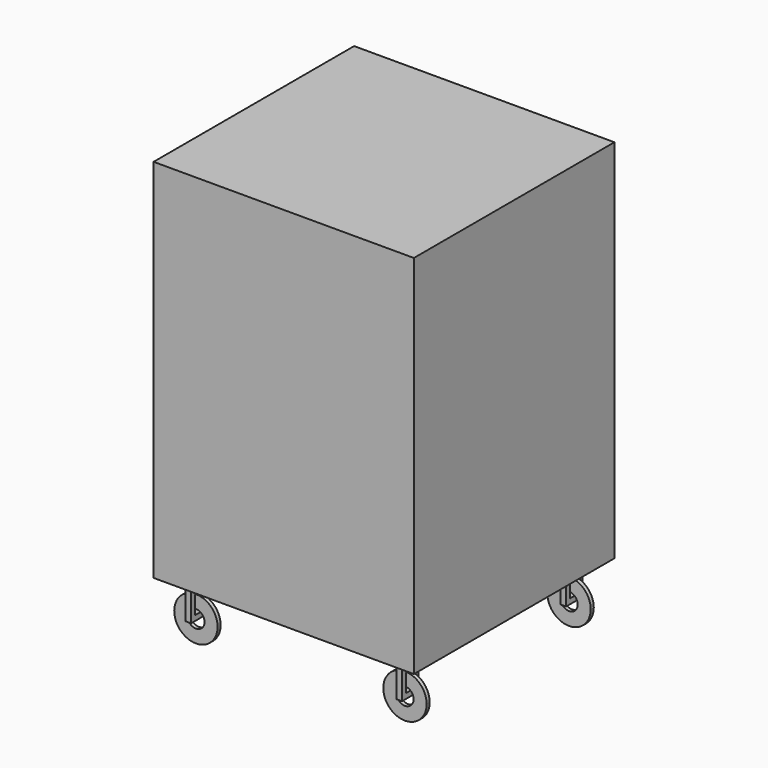
from build123d import *

# Parameters (mm, degrees)
F1_START  = 15.24
F0_W      = 13.5
F0_H      = 13
F1_DEPTH  = 96.52
F2_DEPTH  = 25
F4_START  = 6.5
F4_DEPTH  = 1
F5_R      = 2.2732854871
F6_DEPTH  = 25
F10_START = 6.25
F9_W      = 2.72
F9_H      = 1.36
F10_DEPTH = 1.5
F13_W     = 41.58
F13_H     = 15.24
F14_DEPTH = 100
F15_W     = 40.04
F15_H     = 15.24
F16_DEPTH = 100


with BuildPart() as f1:
    # F0 (on Top) → F1 (new body)
    with BuildSketch(Plane.XY.offset(F1_START)):
        Polygon((-20.79, -20.02), (-20.79, -33.02), (20.79, -33.02), (20.79, -20.02), (34.29, -20.02), (34.29, 20.02), (20.79, 20.02), (20.79, 33.02), (-20.79, 33.02), (-20.79, 20.02), (-34.29, 20.02), (-34.29, -20.02), align=None)
        with Locations((-27.54, -26.52)):
            Rectangle(F0_W, F0_H)
        with Locations((-27.54, 26.52)):
            Rectangle(F0_W, F0_H)
        with Locations((27.54, -26.52)):
            Rectangle(F0_W, F0_H)
        with Locations((27.54, 26.52)):
            Rectangle(F0_W, F0_H)
    extrude(amount=F1_DEPTH)

    # F0 (on Top) → F2 (join)
    with BuildSketch(Plane.XY):
        Polygon((-20.79, -20.02), (-20.79, -33.02), (20.79, -33.02), (20.79, -20.02), (34.29, -20.02), (34.29, 20.02), (20.79, 20.02), (20.79, 33.02), (-20.79, 33.02), (-20.79, 20.02), (-34.29, 20.02), (-34.29, -20.02), align=None)
    extrude(amount=F2_DEPTH)


with BuildPart() as f4:
    # F3 (on face) → F4 (new body)
    with BuildSketch(Plane(origin=(0, 20.02, 0), x_dir=(-1, 0, 0), z_dir=(0, 1, 0)).offset(F4_START)):
        with BuildLine():
            Line((27.54, 0), (27.54, 11.43))
            ThreePointArc((27.54, 11.43), (21.825, 5.715), (27.54, 0))
        make_face()
        with BuildLine():
            ThreePointArc((27.54, 0), (31.5811152545, 1.6738847455), (33.255, 5.715))
            ThreePointArc((33.255, 5.715), (31.5811152545, 9.7561152545), (27.54, 11.43))
            Line((27.54, 11.43), (27.54, 0))
        make_face()
    extrude(amount=F4_DEPTH)


with BuildPart() as f6_tool:
    # F5 (on face) → F6 (new body)
    with BuildSketch(Plane(origin=(0, 27.52, 0), x_dir=(-1, 0, 0), z_dir=(0, 1, 0))):
        with Locations((27.54, 5.715)):
            Circle(F5_R)
    extrude(amount=-F6_DEPTH)


with BuildPart() as f1_1:
    add(f1.part)

    # F6: cut by f6_tool
    add(f6_tool.part, mode=Mode.SUBTRACT)

    # F9 (on face) → F10 (join)
    with BuildSketch(Plane(origin=(-20.79, 0, 0), x_dir=(0, -1, 0), z_dir=(-1, 0, 0)).offset(F10_START)):
        Polygon((-25.66, 15.24), (-27.02, 15.24), (-27.02, 13.1759335107), (-27.02, 11.8159335107), (-25.66, 11.8159335107), (-25.66, 7.0929335107), (-25.66, 5.7329335107), (-24.3, 5.7329335107), (-24.3, 13.1759335107), (-25.66, 13.1759335107), align=None)
        Polygon((-27.02, 13.1759335107), (-27.02, 15.24), (-28.38, 15.24), (-28.38, 13.1759335107), (-29.74, 13.1759335107), (-29.74, 5.7329335107), (-28.38, 5.7329335107), (-28.38, 7.0929335107), (-28.38, 11.8159335107), (-27.02, 11.8159335107), align=None)
        with Locations((-27.02, 6.4129335107)):
            Rectangle(F9_W, F9_H)
    extrude(amount=F10_DEPTH)

    # F11: F1 across plane


with BuildPart() as f4_1:
    add(f4.part)

    # F6: cut by f6_tool
    add(f6_tool.part, mode=Mode.SUBTRACT)


with BuildPart() as f7_1:
    # F7: instance of F4
    add(f4_1.part.mirror(Plane.YZ))


with BuildPart() as f8_1:
    # F8: instance of F7_1
    add(f7_1.part.mirror(Plane.XZ))


with BuildPart() as f8_2:
    # F8: instance of F4
    add(f4_1.part.mirror(Plane.XZ))


with BuildPart() as f1_2:
    add(f1_1.part)
    add(f1_1.part.mirror(Plane.XZ))

    # F12: F1 across plane


with BuildPart() as f1_3:
    add(f1_2.part)
    add(f1_2.part.mirror(Plane.YZ))

    # F13 (on face) → F14 (cut)
    with BuildSketch(Plane.XZ.offset(33.02)):
        with Locations((0, 7.62)):
            Rectangle(F13_W, F13_H)
    extrude(amount=-F14_DEPTH, mode=Mode.SUBTRACT)

    # F15 (on face) → F16 (cut)
    with BuildSketch(Plane.YZ.offset(34.29)):
        with Locations((0, 7.62)):
            Rectangle(F15_W, F15_H)
    extrude(amount=-F16_DEPTH, mode=Mode.SUBTRACT)


solid = Compound([f4_1.part, f7_1.part, f8_1.part, f8_2.part, f1_3.part])
